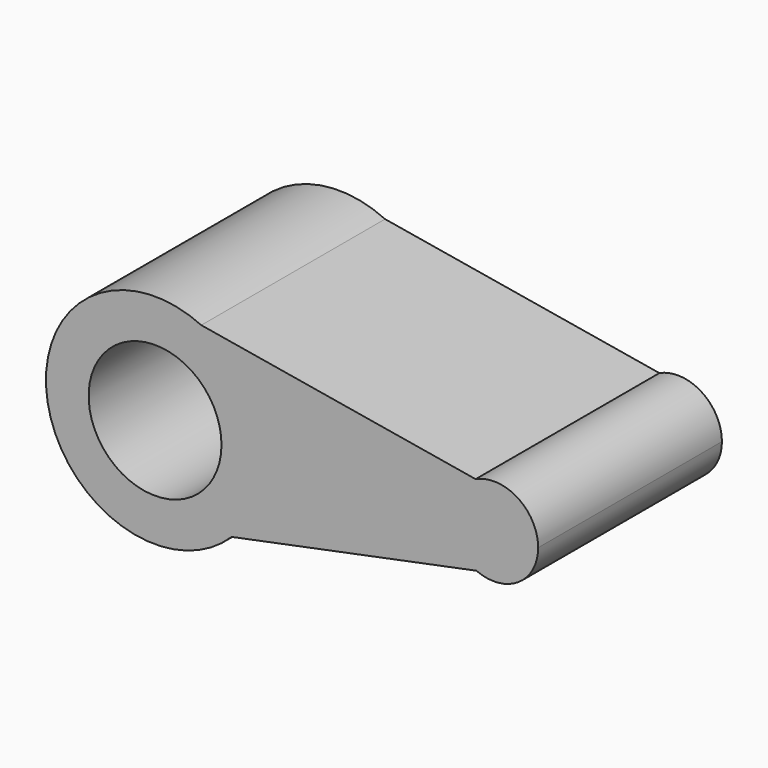
from build123d import *

# Parameters (mm, degrees)
F1_DEPTH = 76.2
F2_R     = 22.034775
F3_DEPTH = 254


with BuildPart() as f1:
    # F0 (on Front) → F1 (new body)
    with BuildSketch(Plane.XZ):
        with BuildLine():
            ThreePointArc((-20.306642, -38.174558), (-12.323362, -26.367866), (-9.517229, -12.394451))
            ThreePointArc((-9.517229, -12.394451), (-15.17324, 7.033301), (-30.373554, 20.389141))
            ThreePointArc((-30.373554, 20.389141), (-81.382177, -18.526161), (-20.306642, -38.174558))
        make_face()
        with BuildLine():
            ThreePointArc((-30.373554, 20.389141), (-15.17324, 7.033301), (-9.517229, -12.394451))
            ThreePointArc((-9.517229, -12.394451), (-12.323362, -26.367866), (-20.306642, -38.174558))
            Line((-20.306642, -38.174558), (60.893647, -21.640796))
            ThreePointArc((60.893647, -21.640796), (52.14333, -8.403082), (60.621694, 5.010437))
            Line((60.621694, 5.010437), (-30.373554, 20.389141))
        make_face()
        with BuildLine():
            ThreePointArc((81.371971, -8.253959), (74.628734, 4.059837), (60.621694, 5.010437))
            ThreePointArc((60.621694, 5.010437), (52.14333, -8.403082), (60.893647, -21.640796))
            ThreePointArc((60.893647, -21.640796), (74.753969, -20.486795), (81.371971, -8.253959))
        make_face()
    extrude(amount=F1_DEPTH)

    # F2 (on face) → F3 (cut)
    with BuildSketch(Plane.XZ.offset(76.2)):
        with Locations((-45.71129, -12.394451)):
            Circle(F2_R)
    extrude(amount=-F3_DEPTH, mode=Mode.SUBTRACT)


solid = f1.part
